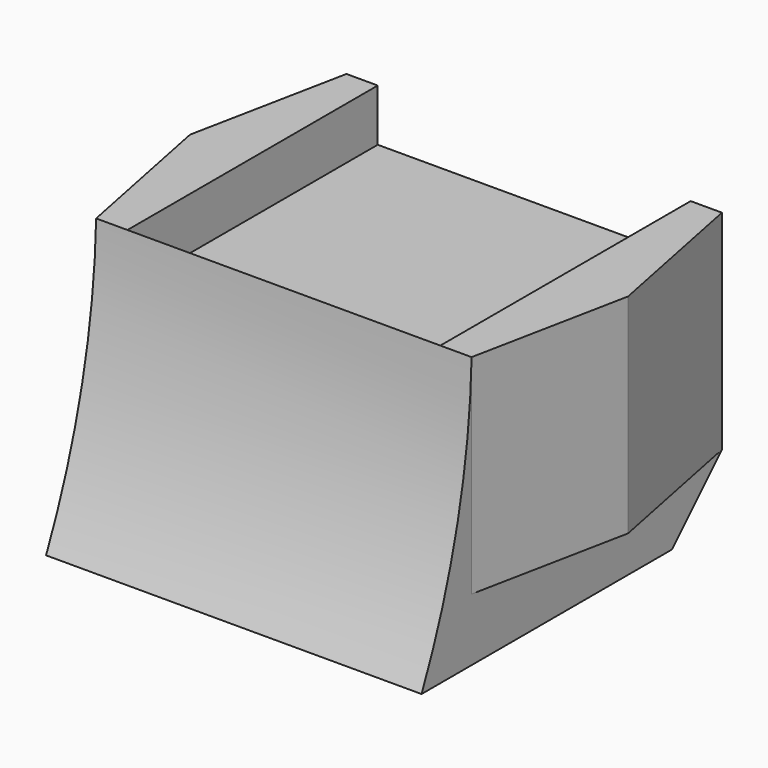
from build123d import *

# Parameters (mm, degrees)
F1_DEPTH  = 7.62
F3_DEPTH  = 50.8
F4_W      = 45.72
F4_H      = 38.1
F4_H_2    = 7.62
F5_DEPTH  = 7.62
F7_DEPTH  = 50.8
F8_W      = 3.81
F8_H      = 38.1
F9_DEPTH  = 25.4
F10_W     = 38.1
F10_H     = 3.81
F11_DEPTH = 38.1


with BuildPart() as f1:
    # F0 (on Top) → F1 (new body)
    with BuildSketch(Plane.XY):
        Polygon((-48.29051, -3.241779), (-55.91051, -3.241779), (-55.91051, -41.341779), (-10.19051, -41.341779), (-10.19051, -3.241779), (-17.81051, -3.241779), (-17.81051, -33.721779), (-48.29051, -33.721779), align=None)
    extrude(amount=F1_DEPTH)

    # F2 (on face) → F3 (cut)
    with BuildSketch(Plane.YZ.offset(-10.19051)):
        Polygon((-3.241779, 0), (-3.241779, 7.62), (-10.861779, 0), align=None)
    extrude(amount=-F3_DEPTH, mode=Mode.SUBTRACT)

    # F4 (on face) → F5 (join)
    with BuildSketch(Plane.XZ.offset(41.341779)):
        with Locations((-33.05051, 26.67)):
            Rectangle(F4_W, F4_H)
        with Locations((-33.05051, 3.81)):
            Rectangle(F4_W, F4_H_2)
    extrude(amount=F5_DEPTH)

    # F6 (on face) → F7 (cut)
    with BuildSketch(Plane.YZ.offset(-10.19051)):
        with BuildLine():
            Line((-48.961779, 45.72), (-48.961779, 0))
            ThreePointArc((-48.961779, 0), (-43.483086, 16.124917), (-41.341779, 33.02))
            Line((-41.341779, 33.02), (-41.341779, 45.72))
            Line((-41.341779, 45.72), (-48.961779, 45.72))
        make_face()
    extrude(amount=-F7_DEPTH, mode=Mode.SUBTRACT)

    # F8 (on face) → F9 (join)
    with BuildSketch(Plane.XY.offset(7.62)):
        Polygon((-10.19051, -3.241779), (-10.19051, -41.341779), (-6.38051, -22.291779), align=None)
        with Locations((-12.09551, -22.291779)):
            Rectangle(F8_W, F8_H)
        with Locations((-54.00551, -22.291779)):
            Rectangle(F8_W, F8_H)
        Polygon((-59.72051, -22.291779), (-55.91051, -41.341779), (-55.91051, -3.241779), align=None)
    extrude(amount=F9_DEPTH)

    # F10 (on face) → F11 (join)
    with BuildSketch(Plane.YZ.offset(-52.10051)):
        with Locations((-22.291779, 24.765)):
            Rectangle(F10_W, F10_H)
    extrude(amount=F11_DEPTH)


solid = f1.part
